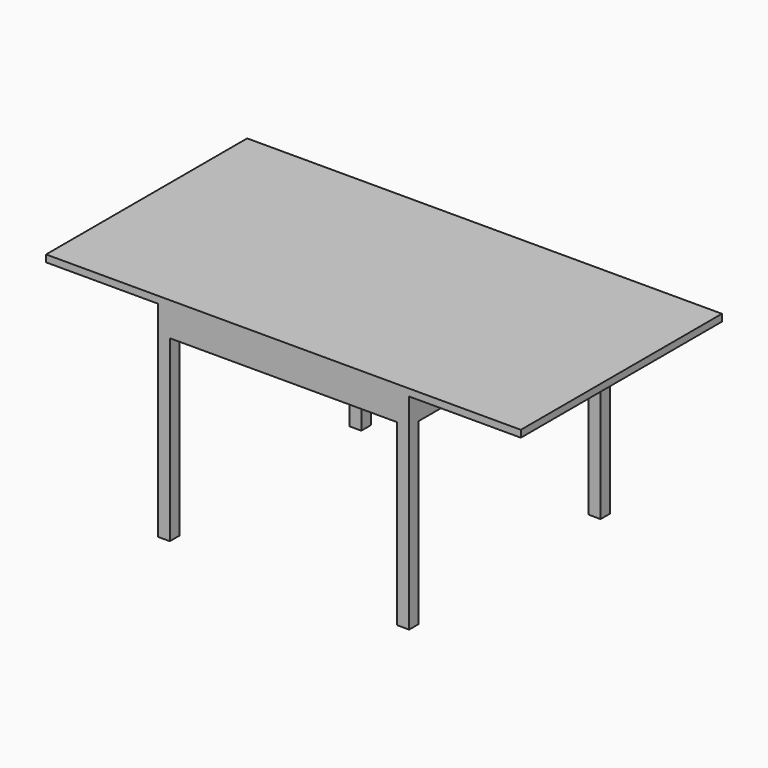
from build123d import *

# Parameters (mm, degrees)
SKETCH_W           = 1700
SKETCH_H           = 900
PAD_DEPTH          = 25
SKETCH001_W        = 900
SKETCH001_H        = 900
PAD001_DEPTH       = 95
SKETCH002_W        = 43
SKETCH002_H        = 43
PAD002_DEPTH       = 640
POLARPATTERN_COUNT = 4


with BuildPart() as part:
    # Sketch → Pad (new body)
    with BuildSketch(Plane.XY):
        Rectangle(SKETCH_W, SKETCH_H)
    extrude(amount=PAD_DEPTH)

    # Sketch001 (on Face5 of Pad) → Pad001 (join)
    with BuildSketch(Plane(origin=(0, 0, 0), x_dir=(1, 0, 0), z_dir=(0, 0, -1))):
        Rectangle(SKETCH001_W, SKETCH001_H)
    extrude(amount=PAD001_DEPTH)

    # Sketch002 (on Face11 of Pad001) → Pad002 (join)
    with BuildSketch(Plane(origin=(0, 0, -95), x_dir=(1, 0, 0), z_dir=(0, 0, -1))):
        with Locations((-428.5, -428.5)):
            Rectangle(SKETCH002_W, SKETCH002_H)
    pad002 = extrude(amount=PAD002_DEPTH)

    # PolarPattern: Pad002 ×4 about axis
    polarpattern_axis = Axis((0, 0, -95), (0, 0, -1))
    for i in range(1, POLARPATTERN_COUNT):
        add(pad002.rotate(polarpattern_axis, i * 360 / POLARPATTERN_COUNT))


solid = part.part
